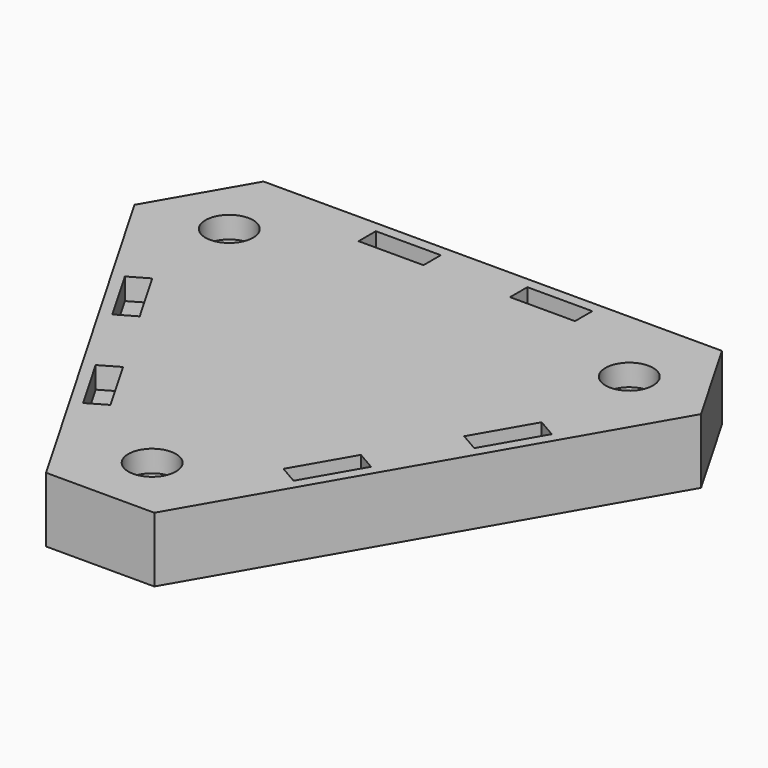
from build123d import *

# Parameters (mm, degrees)
F1_DEPTH = 15
F2_SIZE  = 25
F3_W     = 15
F3_H     = 5
F4_DEPTH = 5
F5_R     = 5.5
F6_DEPTH = 5


with BuildPart() as f1:
    # F0 (on Top) → F1 (new body)
    with BuildSketch(Plane.XY):
        Polygon((-77.942286, 45), (0, -90), (77.942286, 45), align=None)
    extrude(amount=F1_DEPTH)

    # F2
    f2_edges = [f1.edges().sort_by_distance(p)[0] for p in [
        (0, -90, 7.5),
        (77.942286, 45, 7.5),
        (-77.942286, 45, 7.5),
    ]]
    chamfer(f2_edges, length=F2_SIZE)

    # F3 (on face) → F4 (cut)
    with BuildSketch(Plane.XY.offset(15)):
        with Locations((-17.5, 40)):
            Rectangle(F3_W, F3_H)
        with Locations((17.5, 40)):
            Rectangle(F3_W, F3_H)
        Polygon((41.80608, -12.589746), (49.30608, 0.400635), (44.975953, 2.900635), (37.475953, -10.089746), align=None)
        Polygon((31.80608, -29.910254), (27.475953, -27.410254), (19.975953, -40.400635), (24.30608, -42.900635), align=None)
        Polygon((-31.80608, -29.910254), (-24.30608, -42.900635), (-19.975953, -40.400635), (-27.475953, -27.410254), align=None)
        Polygon((-41.80608, -12.589746), (-37.475953, -10.089746), (-44.975953, 2.900635), (-49.30608, 0.400635), align=None)
    extrude(amount=-F4_DEPTH, mode=Mode.SUBTRACT)

    # F5 (on face) → F6 (cut)
    with BuildSketch(Plane.XY.offset(15)):
        with Locations((0, -53.349365)):
            Circle(F5_R)
        with Locations((-46.201905, 26.674682)):
            Circle(F5_R)
        with Locations((46.201905, 26.674682)):
            Circle(F5_R)
    extrude(amount=-F6_DEPTH, mode=Mode.SUBTRACT)


solid = f1.part
